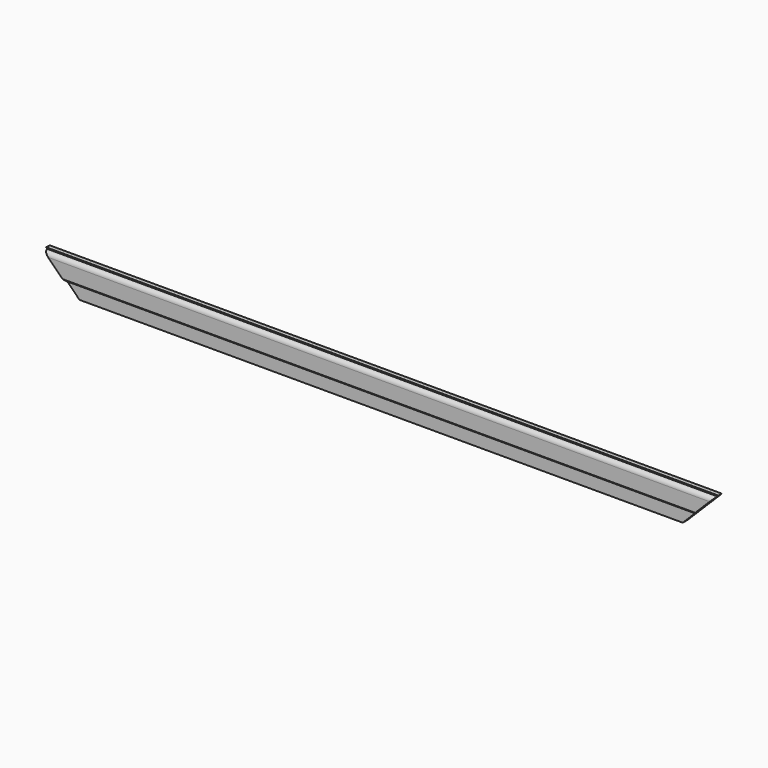
from build123d import *

# Parameters (mm, degrees)
F1_DEPTH = 1981.2
F3_DEPTH = 25.4
F4_SIZE  = 5.08


with BuildPart() as f1:
    # F0 (on Right) → F1 (new body)
    with BuildSketch(Plane.YZ):
        with BuildLine():
            Line((-17.145, 0), (0, 0))
            Line((0, 0), (0, 101.6))
            Line((0, 101.6), (-12.7, 101.6))
            Line((-12.7, 101.6), (-12.7, 98.425))
            ThreePointArc((-12.7, 98.425), (-21.680256, 94.705256), (-25.4, 85.725))
            Line((-25.4, 85.725), (-25.4, 38.1))
            Line((-25.4, 38.1), (-17.145, 38.1))
            Line((-17.145, 38.1), (-17.145, 0))
        make_face()
    extrude(amount=F1_DEPTH)

    # F2 (on face) → F3 (cut)
    with BuildSketch(Plane(origin=(0, 0, 0), x_dir=(-1, 0, 0), z_dir=(0, 1, 0))):
        Polygon((-1879.6, 0), (-1981.2, 101.6), (-1981.2, 0), align=None)
        Polygon((0, 0), (0, 101.6), (-101.6, 0), align=None)
    extrude(amount=-F3_DEPTH, mode=Mode.SUBTRACT)

    # F4
    f4_edges = [f1.edges().sort_by_distance(p)[0] for p in [
        (990.6, -25.4, 38.1),
    ]]
    chamfer(f4_edges, length=F4_SIZE)


solid = f1.part
